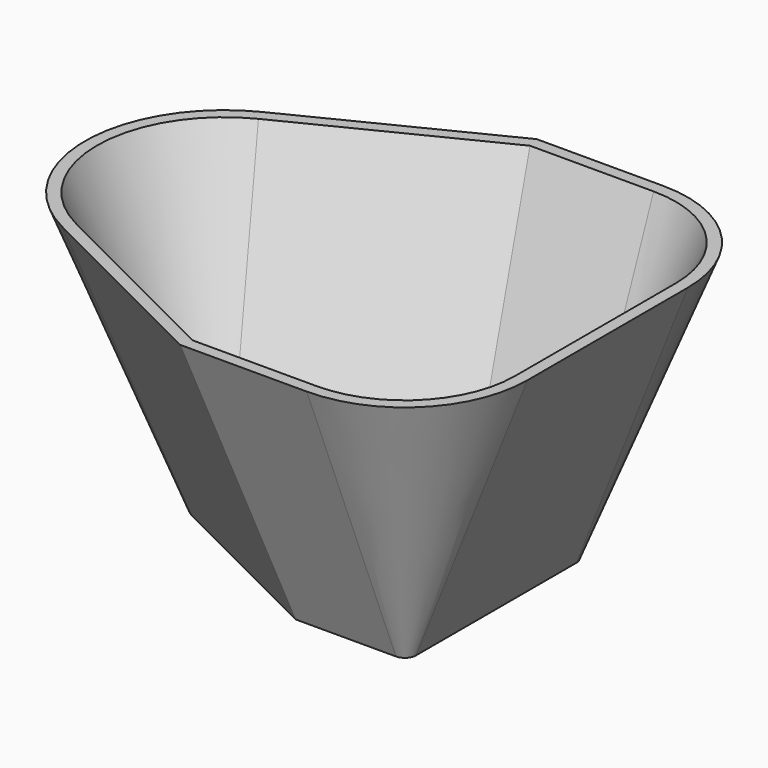
from build123d import *

# Parameters (mm, degrees)
F4_T = -2


with BuildPart() as f3:
    # F2 (on offset) → F3 section 0
    with BuildSketch(Plane.XY.offset(50)):
        with BuildLine():
            Line((-10.4631885048, -18), (-10.4631885048, 18))
            ThreePointArc((-10.4631885048, 18), (-16.9068393187, 33.5563491861), (-32.4631885048, 40))
            Line((-32.4631885048, 40), (-55.1845480548, 40))
            Line((-55.1845480548, 40), (-90.4631885048, 22.360679775))
            ThreePointArc((-90.4631885048, 22.360679775), (-104.2828486173, 0), (-90.4631885048, -22.360679775))
            Line((-90.4631885048, -22.360679775), (-55.1845480548, -40))
            Line((-55.1845480548, -40), (-32.4631885048, -40))
            ThreePointArc((-32.4631885048, -40), (-16.9068393187, -33.5563491861), (-10.4631885048, -18))
        make_face()
    # F0 (on Top) → F3 section 1
    with BuildSketch(Plane.XY):
        with BuildLine():
            Line((-32.4631885048, 20), (-50.4631885048, 20))
            Line((-50.4631885048, 20), (-81.5189165948, 4.472135955))
            ThreePointArc((-81.5189165948, 4.472135955), (-84.2828486173, 0), (-81.5189165948, -4.472135955))
            Line((-81.5189165948, -4.472135955), (-50.4631885048, -20))
            Line((-50.4631885048, -20), (-32.4631885048, -20))
            ThreePointArc((-32.4631885048, -20), (-31.0489749424, -19.4142135624), (-30.4631885048, -18))
            Line((-30.4631885048, -18), (-30.4631885048, 18))
            ThreePointArc((-30.4631885048, 18), (-31.0489749424, 19.4142135624), (-32.4631885048, 20))
        make_face()
    loft()

    # F4
    f4_openings = [f3.faces().sort_by_distance(p)[0] for p in [
        (-52.110858, 0, 50),
    ]]
    offset(amount=F4_T, openings=f4_openings)


solid = f3.part
